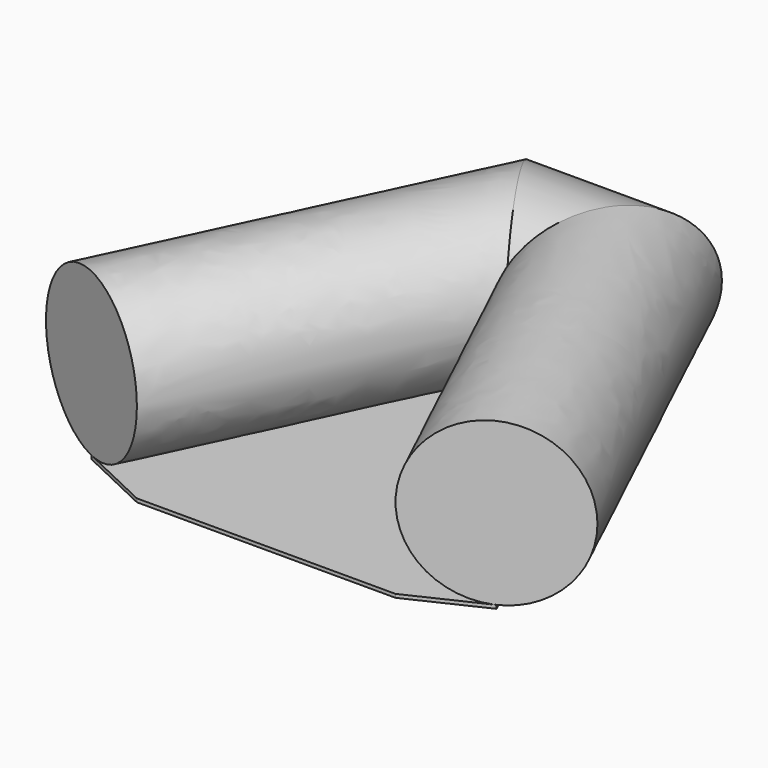
from build123d import *

# Parameters (mm, degrees)
F2_R     = 140
F5_R     = 140
F9_DEPTH = 6


with BuildPart() as f3:
    # F3: sweep along a path in F0
    with BuildLine(Plane.XY) as f3_path:
        Line((-350, 0), (-75, 580))
        Line((-75, 580), (75, 580))
    # F2 (on line) → F3 (sweep)
    with BuildSketch(Plane(origin=(-64.2406407378, -135.4893513743, 0), x_dir=(0.9035791676, -0.4284211571, 0), z_dir=(-0.4284211571, -0.9035791676, 0))):
        with Locations((-316.252708671, 0)):
            Circle(F2_R)
    sweep(path=f3_path.line, transition=Transition.RIGHT)

    # F6: sweep along a path in F0
    with BuildLine(Plane.XY) as f6_path:
        Line((350, 0), (75, 580))
        Line((75, 580), (-75, 580))
    # F5 (on line) → F6 (sweep)
    with BuildSketch(Plane(origin=(64.2406407378, -135.4893513743, 0), x_dir=(0.9035791676, 0.4284211571, 0), z_dir=(0.4284211571, -0.9035791676, 0))):
        with Locations((316.252708671, 0)):
            Circle(F5_R)
    sweep(path=f6_path.line, transition=Transition.RIGHT)


with BuildPart() as f9:
    # F8 (on offset) → F9 (new body)
    with BuildSketch(Plane.XY.offset(-140)):
        Polygon((-223.4989165316, -59.9789619893), (0, 411.4005710591), (223.4989165316, -59.9789619893), (350, 0), (75.174340639, 579.6322997432), (-75.1671269536, 579.6322997432), (-350, 0), align=None)
        Polygon((223.4989165316, -59.9789619893), (0, 411.4005710591), (-223.4989165316, -59.9789619893), align=None)
    extrude(amount=-F9_DEPTH)


solid = Compound([f3.part, f9.part])
